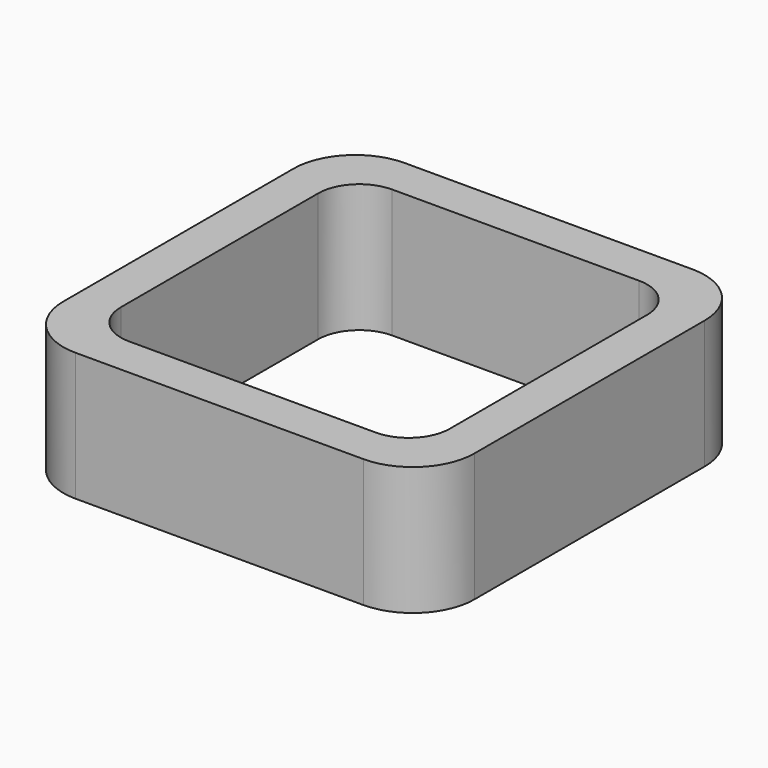
from build123d import *

# Parameters (mm, degrees)
EXTRUDE_DEPTH = 50


with BuildPart() as part:
    # Sketch → Extrude (new body)
    with BuildSketch(Plane.XY):
        with BuildLine():
            Line((-56, 80), (56, 80))
            ThreePointArc((80, 56), (72.970563, 72.970563), (56, 80))
            Line((80, 56), (80, -56))
            ThreePointArc((56, -80), (72.970563, -72.970563), (80, -56))
            Line((56, -80), (-56, -80))
            ThreePointArc((-80, -56), (-72.970563, -72.970563), (-56, -80))
            Line((-80, -56), (-80, 56))
            ThreePointArc((-56, 80), (-72.970563, 72.970563), (-80, 56))
        make_face()
        with BuildLine():
            Line((-48, 64), (48, 64))
            ThreePointArc((64, 48), (59.313708, 59.313708), (48, 64))
            Line((64, 48), (64, -48))
            ThreePointArc((48, -64), (59.313708, -59.313708), (64, -48))
            Line((48, -64), (-48, -64))
            ThreePointArc((-64, -48), (-59.313708, -59.313708), (-48, -64))
            Line((-64, -48), (-64, 48))
            ThreePointArc((-48, 64), (-59.313708, 59.313708), (-64, 48))
        make_face(mode=Mode.SUBTRACT)
    extrude(amount=EXTRUDE_DEPTH)


solid = part.part
